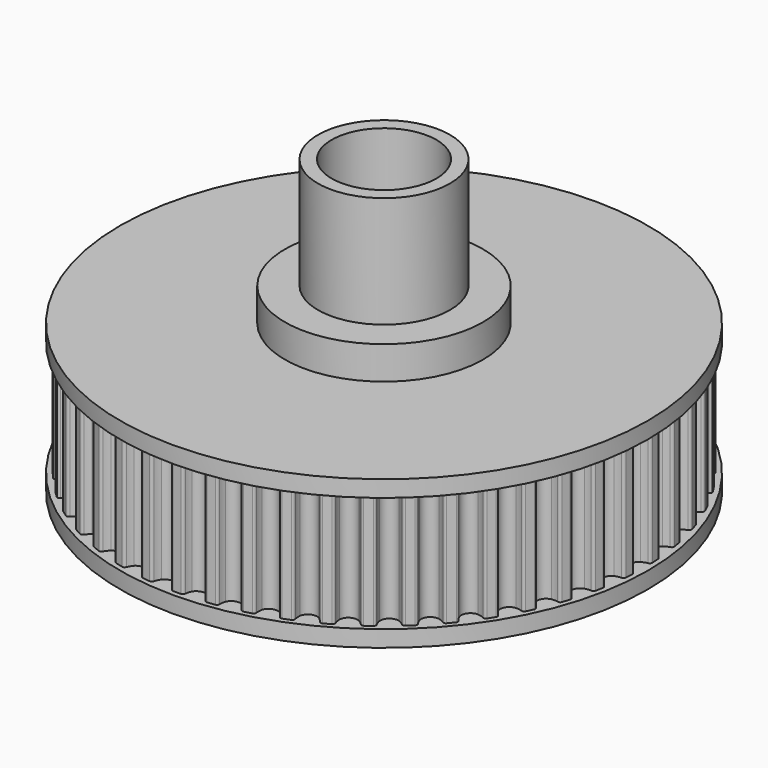
from build123d import *

# Parameters (mm, degrees)
PAD014_DEPTH     = 8
SKETCHBASE002_R  = 16
PADBASE002_DEPTH = 1
SKETCHTOP002_R   = 16
PADTOP002_DEPTH  = 1
SKETCH028_R      = 3.175
POCKET011_DEPTH  = 9.001
SKETCH029_R      = 6
PAD015_DEPTH     = 2
SKETCH030_R      = 4
PAD016_DEPTH     = 6.75
SKETCH031_R      = 6.35
PAD017_DEPTH     = 1.4
SKETCH032_R      = 3.175
POCKET012_DEPTH  = 19.151


with BuildPart() as part:
    # SketchGear002 → Pad014 (new body)
    with BuildSketch(Plane.XY):
        with BuildLine():
            ThreePointArc((15.661494, -0.75), (15.61756, -0.643934), (15.511494, -0.6))
            ThreePointArc((15.511494, -0.6), (15.332205, -0.544218), (15.161494, -0.466025))
            ThreePointArc((15.161494, -0.466025), (14.911494, 0), (15.161494, 0.466025))
            ThreePointArc((15.161494, 0.466025), (15.332205, 0.544218), (15.511494, 0.6))
            ThreePointArc((15.511494, 0.6), (15.61756, 0.643934), (15.661494, 0.75))
            Line((15.661494, 0.75), (15.631999, 1.21882))
            ThreePointArc((15.631999, 1.21882), (15.575118, 1.318543), (15.464381, 1.348837))
            ThreePointArc((15.464381, 1.348837), (15.279515, 1.381709), (15.10035, 1.437888))
            ThreePointArc((15.10035, 1.437888), (14.793913, 1.868906), (14.983533, 2.36259))
            ThreePointArc((14.983533, 2.36259), (15.143098, 2.461561), (15.313982, 2.539375))
            ThreePointArc((15.313982, 2.539375), (15.413705, 2.596256), (15.443999, 2.706992))
            Line((15.443999, 2.706992), (15.355977, 3.168418))
            ThreePointArc((15.355977, 3.168418), (15.287046, 3.260226), (15.173386, 3.276402))
            ThreePointArc((15.173386, 3.276402), (14.985857, 3.285844), (14.801064, 3.319126))
            ThreePointArc((14.801064, 3.319126), (14.443022, 3.708338), (14.569272, 4.221895))
            ThreePointArc((14.569272, 4.221895), (14.715174, 4.340084), (14.874958, 4.438702))
            ThreePointArc((14.874958, 4.438702), (14.966766, 4.507633), (14.982942, 4.621293))
            Line((14.982942, 4.621293), (14.837783, 5.068048))
            ThreePointArc((14.837783, 5.068048), (14.757888, 5.150493), (14.643097, 5.152296))
            ThreePointArc((14.643097, 5.152296), (14.455864, 5.138161), (14.268356, 5.148019))
            ThreePointArc((14.268356, 5.148019), (13.864357, 5.489287), (13.925246, 6.014618))
            ThreePointArc((13.925246, 6.014618), (14.055184, 6.150162), (14.201348, 6.268028))
            ThreePointArc((14.201348, 6.268028), (14.283792, 6.347922), (14.285596, 6.462713))
            Line((14.285596, 6.462713), (14.085587, 6.887752))
            ThreePointArc((14.085587, 6.887752), (13.99599, 6.959533), (13.881878, 6.946935))
            ThreePointArc((13.881878, 6.946935), (13.697893, 6.909445), (13.510628, 6.895724))
            ThreePointArc((13.510628, 6.895724), (13.067042, 7.183667), (13.061609, 7.712487))
            ThreePointArc((13.061609, 7.712487), (13.173535, 7.863248), (13.303774, 7.998503))
            ThreePointArc((13.303774, 7.998503), (13.375555, 8.088101), (13.362957, 8.202212))
            Line((13.362957, 8.202212), (13.111254, 8.598833))
            ThreePointArc((13.111254, 8.598833), (13.013367, 8.658818), (12.901734, 8.632017))
            ThreePointArc((12.901734, 8.632017), (12.723898, 8.571763), (12.539829, 8.53468))
            ThreePointArc((12.539829, 8.53468), (12.063652, 8.764756), (11.991984, 9.288725))
            ThreePointArc((11.991984, 9.288725), (12.084132, 9.452325), (12.196391, 9.602838))
            ThreePointArc((12.196391, 9.602838), (12.256377, 9.700725), (12.229576, 9.812358))
            Line((12.229576, 9.812358), (11.930148, 10.174304))
            ThreePointArc((11.930148, 10.174304), (11.825515, 10.221548), (11.718121, 10.180967))
            ThreePointArc((11.718121, 10.180967), (11.549239, 10.098899), (11.37127, 10.039039))
            ThreePointArc((11.37127, 10.039039), (10.870012, 10.20762), (10.733237, 10.718475))
            ThreePointArc((10.733237, 10.718475), (10.804154, 10.892334), (10.896664, 11.05573))
            ThreePointArc((10.896664, 11.05573), (10.943908, 11.160363), (10.903328, 11.267757))
            Line((10.903328, 11.267757), (10.560897, 11.589321))
            ThreePointArc((10.560897, 11.589321), (10.451167, 11.623078), (10.349707, 11.569357))
            ThreePointArc((10.349707, 11.569357), (10.192442, 11.46677), (10.023379, 11.385076))
            ThreePointArc((10.023379, 11.385076), (9.504944, 11.489504), (9.305221, 11.979188))
            ThreePointArc((9.305221, 11.979188), (9.353789, 12.160565), (9.425091, 12.334266))
            ThreePointArc((9.425091, 12.334266), (9.458848, 12.443996), (9.405127, 12.545457))
            Line((9.405127, 12.545457), (9.025094, 12.821567))
            ThreePointArc((9.025094, 12.821567), (8.911999, 12.841305), (8.818071, 12.775292))
            ThreePointArc((8.818071, 12.775292), (8.674904, 12.653803), (8.517413, 12.551564))
            ThreePointArc((8.517413, 12.551564), (7.989978, 12.590191), (7.730457, 13.050982))
            ThreePointArc((7.730457, 13.050982), (7.755908, 13.237015), (7.804878, 13.418284))
            ThreePointArc((7.804878, 13.418284), (7.824616, 13.531379), (7.758602, 13.625307))
            Line((7.758602, 13.625307), (7.34696, 13.851609))
            ThreePointArc((7.34696, 13.851609), (7.232283, 13.857017), (7.147369, 13.779752))
            ThreePointArc((7.147369, 13.779752), (7.020558, 13.641278), (6.877123, 13.520106))
            ThreePointArc((6.877123, 13.520106), (6.349005, 13.492323), (6.033778, 13.916954))
            ThreePointArc((6.033778, 13.916954), (6.035713, 14.104711), (6.061577, 14.290687))
            ThreePointArc((6.061577, 14.290687), (6.066985, 14.405365), (5.98972, 14.490278))
            Line((5.98972, 14.490278), (5.55296, 14.663203))
            ThreePointArc((5.55296, 14.663203), (5.438509, 14.654196), (5.363949, 14.566898))
            ThreePointArc((5.363949, 14.566898), (5.255494, 14.413621), (5.128376, 14.275428))
            ThreePointArc((5.128376, 14.275428), (4.607905, 14.181674), (4.241943, 14.563448))
            ThreePointArc((4.241943, 14.563448), (4.22033, 14.749966), (4.222681, 14.937718))
            ThreePointArc((4.222681, 14.937718), (4.213674, 15.052169), (4.126376, 15.126729))
            Line((4.126376, 15.126729), (3.671387, 15.24355))
            ThreePointArc((3.671387, 15.24355), (3.558967, 15.220269), (3.495937, 15.124314))
            ThreePointArc((3.495937, 15.124314), (3.407547, 14.958654), (3.298752, 14.805618))
            ThreePointArc((3.298752, 14.805618), (2.794135, 14.647371), (2.38321, 14.980267))
            ThreePointArc((2.38321, 14.980267), (2.338391, 15.162606), (2.317192, 15.349172))
            ThreePointArc((2.317192, 15.349172), (2.293911, 15.461592), (2.197956, 15.524622))
            Line((2.197956, 15.524622), (1.731913, 15.583497))
            ThreePointArc((1.731913, 15.583497), (1.623298, 15.54631), (1.572791, 15.443212))
            ThreePointArc((1.572791, 15.443212), (1.505861, 15.267779), (1.417104, 15.102315))
            ThreePointArc((1.417104, 15.102315), (0.9363, 14.88207), (0.486892, 15.160839))
            ThreePointArc((0.486892, 15.160839), (0.419573, 15.336122), (0.375159, 15.51856))
            ThreePointArc((0.375159, 15.51856), (0.337971, 15.627176), (0.234873, 15.677683))
            Line((0.234873, 15.677683), (-0.234873, 15.677683))
            ThreePointArc((-0.234873, 15.677683), (-0.337971, 15.627176), (-0.375159, 15.51856))
            ThreePointArc((-0.375159, 15.51856), (-0.419573, 15.336122), (-0.486892, 15.160839))
            ThreePointArc((-0.486892, 15.160839), (-0.9363, 14.88207), (-1.417104, 15.102315))
            ThreePointArc((-1.417104, 15.102315), (-1.505861, 15.267779), (-1.572791, 15.443212))
            ThreePointArc((-1.572791, 15.443212), (-1.623298, 15.54631), (-1.731913, 15.583497))
            Line((-1.731913, 15.583497), (-2.197956, 15.524622))
            ThreePointArc((-2.197956, 15.524622), (-2.293911, 15.461592), (-2.317192, 15.349172))
            ThreePointArc((-2.317192, 15.349172), (-2.338391, 15.162606), (-2.38321, 14.980267))
            ThreePointArc((-2.38321, 14.980267), (-2.794135, 14.647371), (-3.298752, 14.805618))
            ThreePointArc((-3.298752, 14.805618), (-3.407547, 14.958654), (-3.495937, 15.124314))
            ThreePointArc((-3.495937, 15.124314), (-3.558967, 15.220269), (-3.671387, 15.24355))
            Line((-3.671387, 15.24355), (-4.126376, 15.126729))
            ThreePointArc((-4.126376, 15.126729), (-4.213674, 15.052169), (-4.222681, 14.937718))
            ThreePointArc((-4.222681, 14.937718), (-4.22033, 14.749966), (-4.241943, 14.563448))
            ThreePointArc((-4.241943, 14.563448), (-4.607905, 14.181674), (-5.128376, 14.275428))
            ThreePointArc((-5.128376, 14.275428), (-5.255494, 14.413621), (-5.363949, 14.566898))
            ThreePointArc((-5.363949, 14.566898), (-5.438509, 14.654196), (-5.55296, 14.663203))
            Line((-5.55296, 14.663203), (-5.98972, 14.490278))
            ThreePointArc((-5.98972, 14.490278), (-6.066985, 14.405365), (-6.061577, 14.290687))
            ThreePointArc((-6.061577, 14.290687), (-6.035713, 14.104711), (-6.033778, 13.916954))
            ThreePointArc((-6.033778, 13.916954), (-6.349005, 13.492323), (-6.877123, 13.520106))
            ThreePointArc((-6.877123, 13.520106), (-7.020558, 13.641278), (-7.147369, 13.779752))
            ThreePointArc((-7.147369, 13.779752), (-7.232283, 13.857017), (-7.34696, 13.851609))
            Line((-7.34696, 13.851609), (-7.758602, 13.625307))
            ThreePointArc((-7.758602, 13.625307), (-7.824616, 13.531379), (-7.804878, 13.418284))
            ThreePointArc((-7.804878, 13.418284), (-7.755908, 13.237015), (-7.730457, 13.050982))
            ThreePointArc((-7.730457, 13.050982), (-7.989978, 12.590191), (-8.517413, 12.551564))
            ThreePointArc((-8.517413, 12.551564), (-8.674904, 12.653803), (-8.818071, 12.775292))
            ThreePointArc((-8.818071, 12.775292), (-8.911999, 12.841305), (-9.025094, 12.821567))
            Line((-9.025094, 12.821567), (-9.405127, 12.545457))
            ThreePointArc((-9.405127, 12.545457), (-9.458848, 12.443996), (-9.425091, 12.334266))
            ThreePointArc((-9.425091, 12.334266), (-9.353789, 12.160565), (-9.305221, 11.979188))
            ThreePointArc((-9.305221, 11.979188), (-9.504944, 11.489504), (-10.023379, 11.385076))
            ThreePointArc((-10.023379, 11.385076), (-10.192442, 11.46677), (-10.349707, 11.569357))
            ThreePointArc((-10.349707, 11.569357), (-10.451167, 11.623078), (-10.560897, 11.589321))
            Line((-10.560897, 11.589321), (-10.903328, 11.267757))
            ThreePointArc((-10.903328, 11.267757), (-10.943908, 11.160363), (-10.896664, 11.05573))
            ThreePointArc((-10.896664, 11.05573), (-10.804154, 10.892334), (-10.733237, 10.718475))
            ThreePointArc((-10.733237, 10.718475), (-10.870012, 10.20762), (-11.37127, 10.039039))
            ThreePointArc((-11.37127, 10.039039), (-11.549239, 10.098899), (-11.718121, 10.180967))
            ThreePointArc((-11.718121, 10.180967), (-11.825515, 10.221548), (-11.930148, 10.174304))
            Line((-11.930148, 10.174304), (-12.229576, 9.812358))
            ThreePointArc((-12.229576, 9.812358), (-12.256377, 9.700725), (-12.196391, 9.602838))
            ThreePointArc((-12.196391, 9.602838), (-12.084132, 9.452325), (-11.991984, 9.288725))
            ThreePointArc((-11.991984, 9.288725), (-12.063652, 8.764756), (-12.539829, 8.53468))
            ThreePointArc((-12.539829, 8.53468), (-12.723898, 8.571763), (-12.901734, 8.632017))
            ThreePointArc((-12.901734, 8.632017), (-13.013367, 8.658818), (-13.111254, 8.598833))
            Line((-13.111254, 8.598833), (-13.362957, 8.202212))
            ThreePointArc((-13.362957, 8.202212), (-13.375555, 8.088101), (-13.303774, 7.998503))
            ThreePointArc((-13.303774, 7.998503), (-13.173535, 7.863248), (-13.061609, 7.712487))
            ThreePointArc((-13.061609, 7.712487), (-13.067042, 7.183667), (-13.510628, 6.895724))
            ThreePointArc((-13.510628, 6.895724), (-13.697893, 6.909445), (-13.881878, 6.946935))
            ThreePointArc((-13.881878, 6.946935), (-13.99599, 6.959533), (-14.085587, 6.887752))
            Line((-14.085587, 6.887752), (-14.285596, 6.462713))
            ThreePointArc((-14.285596, 6.462713), (-14.283792, 6.347922), (-14.201348, 6.268028))
            ThreePointArc((-14.201348, 6.268028), (-14.055184, 6.150162), (-13.925246, 6.014618))
            ThreePointArc((-13.925246, 6.014618), (-13.864357, 5.489287), (-14.268356, 5.148019))
            ThreePointArc((-14.268356, 5.148019), (-14.455864, 5.138161), (-14.643097, 5.152296))
            ThreePointArc((-14.643097, 5.152296), (-14.757888, 5.150493), (-14.837783, 5.068048))
            Line((-14.837783, 5.068048), (-14.982942, 4.621293))
            ThreePointArc((-14.982942, 4.621293), (-14.966766, 4.507633), (-14.874958, 4.438702))
            ThreePointArc((-14.874958, 4.438702), (-14.715174, 4.340084), (-14.569272, 4.221895))
            ThreePointArc((-14.569272, 4.221895), (-14.443022, 3.708338), (-14.801064, 3.319126))
            ThreePointArc((-14.801064, 3.319126), (-14.985857, 3.285844), (-15.173386, 3.276402))
            ThreePointArc((-15.173386, 3.276402), (-15.287046, 3.260226), (-15.355977, 3.168418))
            Line((-15.355977, 3.168418), (-15.443999, 2.706992))
            ThreePointArc((-15.443999, 2.706992), (-15.413705, 2.596256), (-15.313982, 2.539375))
            ThreePointArc((-15.313982, 2.539375), (-15.143098, 2.461561), (-14.983533, 2.36259))
            ThreePointArc((-14.983533, 2.36259), (-14.793913, 1.868906), (-15.10035, 1.437888))
            ThreePointArc((-15.10035, 1.437888), (-15.279515, 1.381709), (-15.464381, 1.348837))
            ThreePointArc((-15.464381, 1.348837), (-15.575118, 1.318543), (-15.631999, 1.21882))
            Line((-15.631999, 1.21882), (-15.661494, 0.75))
            ThreePointArc((-15.661494, 0.75), (-15.61756, 0.643934), (-15.511494, 0.6))
            ThreePointArc((-15.511494, 0.6), (-15.332205, 0.544218), (-15.161494, 0.466025))
            ThreePointArc((-15.161494, 0.466025), (-14.911494, 0), (-15.161494, -0.466025))
            ThreePointArc((-15.161494, -0.466025), (-15.332205, -0.544218), (-15.511494, -0.6))
            ThreePointArc((-15.511494, -0.6), (-15.61756, -0.643934), (-15.661494, -0.75))
            Line((-15.661494, -0.75), (-15.631999, -1.21882))
            ThreePointArc((-15.631999, -1.21882), (-15.575118, -1.318543), (-15.464381, -1.348837))
            ThreePointArc((-15.464381, -1.348837), (-15.279515, -1.381709), (-15.10035, -1.437888))
            ThreePointArc((-15.10035, -1.437888), (-14.793913, -1.868906), (-14.983533, -2.36259))
            ThreePointArc((-14.983533, -2.36259), (-15.143098, -2.461561), (-15.313982, -2.539375))
            ThreePointArc((-15.313982, -2.539375), (-15.413705, -2.596256), (-15.443999, -2.706992))
            Line((-15.443999, -2.706992), (-15.355977, -3.168418))
            ThreePointArc((-15.355977, -3.168418), (-15.287046, -3.260226), (-15.173386, -3.276402))
            ThreePointArc((-15.173386, -3.276402), (-14.985857, -3.285844), (-14.801064, -3.319126))
            ThreePointArc((-14.801064, -3.319126), (-14.443022, -3.708338), (-14.569272, -4.221895))
            ThreePointArc((-14.569272, -4.221895), (-14.715174, -4.340084), (-14.874958, -4.438702))
            ThreePointArc((-14.874958, -4.438702), (-14.966766, -4.507633), (-14.982942, -4.621293))
            Line((-14.982942, -4.621293), (-14.837783, -5.068048))
            ThreePointArc((-14.837783, -5.068048), (-14.757888, -5.150493), (-14.643097, -5.152296))
            ThreePointArc((-14.643097, -5.152296), (-14.455864, -5.138161), (-14.268356, -5.148019))
            ThreePointArc((-14.268356, -5.148019), (-13.864357, -5.489287), (-13.925246, -6.014618))
            ThreePointArc((-13.925246, -6.014618), (-14.055184, -6.150162), (-14.201348, -6.268028))
            ThreePointArc((-14.201348, -6.268028), (-14.283792, -6.347922), (-14.285596, -6.462713))
            Line((-14.285596, -6.462713), (-14.085587, -6.887752))
            ThreePointArc((-14.085587, -6.887752), (-13.99599, -6.959533), (-13.881878, -6.946935))
            ThreePointArc((-13.881878, -6.946935), (-13.697893, -6.909445), (-13.510628, -6.895724))
            ThreePointArc((-13.510628, -6.895724), (-13.067042, -7.183667), (-13.061609, -7.712487))
            ThreePointArc((-13.061609, -7.712487), (-13.173535, -7.863248), (-13.303774, -7.998503))
            ThreePointArc((-13.303774, -7.998503), (-13.375555, -8.088101), (-13.362957, -8.202212))
            Line((-13.362957, -8.202212), (-13.111254, -8.598833))
            ThreePointArc((-13.111254, -8.598833), (-13.013367, -8.658818), (-12.901734, -8.632017))
            ThreePointArc((-12.901734, -8.632017), (-12.723898, -8.571763), (-12.539829, -8.53468))
            ThreePointArc((-12.539829, -8.53468), (-12.063652, -8.764756), (-11.991984, -9.288725))
            ThreePointArc((-11.991984, -9.288725), (-12.084132, -9.452325), (-12.196391, -9.602838))
            ThreePointArc((-12.196391, -9.602838), (-12.256377, -9.700725), (-12.229576, -9.812358))
            Line((-12.229576, -9.812358), (-11.930148, -10.174304))
            ThreePointArc((-11.930148, -10.174304), (-11.825515, -10.221548), (-11.718121, -10.180967))
            ThreePointArc((-11.718121, -10.180967), (-11.549239, -10.098899), (-11.37127, -10.039039))
            ThreePointArc((-11.37127, -10.039039), (-10.870012, -10.20762), (-10.733237, -10.718475))
            ThreePointArc((-10.733237, -10.718475), (-10.804154, -10.892334), (-10.896664, -11.05573))
            ThreePointArc((-10.896664, -11.05573), (-10.943908, -11.160363), (-10.903328, -11.267757))
            Line((-10.903328, -11.267757), (-10.560897, -11.589321))
            ThreePointArc((-10.560897, -11.589321), (-10.451167, -11.623078), (-10.349707, -11.569357))
            ThreePointArc((-10.349707, -11.569357), (-10.192442, -11.46677), (-10.023379, -11.385076))
            ThreePointArc((-10.023379, -11.385076), (-9.504944, -11.489504), (-9.305221, -11.979188))
            ThreePointArc((-9.305221, -11.979188), (-9.353789, -12.160565), (-9.425091, -12.334266))
            ThreePointArc((-9.425091, -12.334266), (-9.458848, -12.443996), (-9.405127, -12.545457))
            Line((-9.405127, -12.545457), (-9.025094, -12.821567))
            ThreePointArc((-9.025094, -12.821567), (-8.911999, -12.841305), (-8.818071, -12.775292))
            ThreePointArc((-8.818071, -12.775292), (-8.674904, -12.653803), (-8.517413, -12.551564))
            ThreePointArc((-8.517413, -12.551564), (-7.989978, -12.590191), (-7.730457, -13.050982))
            ThreePointArc((-7.730457, -13.050982), (-7.755908, -13.237015), (-7.804878, -13.418284))
            ThreePointArc((-7.804878, -13.418284), (-7.824616, -13.531379), (-7.758602, -13.625307))
            Line((-7.758602, -13.625307), (-7.34696, -13.851609))
            ThreePointArc((-7.34696, -13.851609), (-7.232283, -13.857017), (-7.147369, -13.779752))
            ThreePointArc((-7.147369, -13.779752), (-7.020558, -13.641278), (-6.877123, -13.520106))
            ThreePointArc((-6.877123, -13.520106), (-6.349005, -13.492323), (-6.033778, -13.916954))
            ThreePointArc((-6.033778, -13.916954), (-6.035713, -14.104711), (-6.061577, -14.290687))
            ThreePointArc((-6.061577, -14.290687), (-6.066985, -14.405365), (-5.98972, -14.490278))
            Line((-5.98972, -14.490278), (-5.55296, -14.663203))
            ThreePointArc((-5.55296, -14.663203), (-5.438509, -14.654196), (-5.363949, -14.566898))
            ThreePointArc((-5.363949, -14.566898), (-5.255494, -14.413621), (-5.128376, -14.275428))
            ThreePointArc((-5.128376, -14.275428), (-4.607905, -14.181674), (-4.241943, -14.563448))
            ThreePointArc((-4.241943, -14.563448), (-4.22033, -14.749966), (-4.222681, -14.937718))
            ThreePointArc((-4.222681, -14.937718), (-4.213674, -15.052169), (-4.126376, -15.126729))
            Line((-4.126376, -15.126729), (-3.671387, -15.24355))
            ThreePointArc((-3.671387, -15.24355), (-3.558967, -15.220269), (-3.495937, -15.124314))
            ThreePointArc((-3.495937, -15.124314), (-3.407547, -14.958654), (-3.298752, -14.805618))
            ThreePointArc((-3.298752, -14.805618), (-2.794135, -14.647371), (-2.38321, -14.980267))
            ThreePointArc((-2.38321, -14.980267), (-2.338391, -15.162606), (-2.317192, -15.349172))
            ThreePointArc((-2.317192, -15.349172), (-2.293911, -15.461592), (-2.197956, -15.524622))
            Line((-2.197956, -15.524622), (-1.731913, -15.583497))
            ThreePointArc((-1.731913, -15.583497), (-1.623298, -15.54631), (-1.572791, -15.443212))
            ThreePointArc((-1.572791, -15.443212), (-1.505861, -15.267779), (-1.417104, -15.102315))
            ThreePointArc((-1.417104, -15.102315), (-0.9363, -14.88207), (-0.486892, -15.160839))
            ThreePointArc((-0.486892, -15.160839), (-0.419573, -15.336122), (-0.375159, -15.51856))
            ThreePointArc((-0.375159, -15.51856), (-0.337971, -15.627176), (-0.234873, -15.677683))
            Line((-0.234873, -15.677683), (0.234873, -15.677683))
            ThreePointArc((0.234873, -15.677683), (0.337971, -15.627176), (0.375159, -15.51856))
            ThreePointArc((0.375159, -15.51856), (0.419573, -15.336122), (0.486892, -15.160839))
            ThreePointArc((0.486892, -15.160839), (0.9363, -14.88207), (1.417104, -15.102315))
            ThreePointArc((1.417104, -15.102315), (1.505861, -15.267779), (1.572791, -15.443212))
            ThreePointArc((1.572791, -15.443212), (1.623298, -15.54631), (1.731913, -15.583497))
            Line((1.731913, -15.583497), (2.197956, -15.524622))
            ThreePointArc((2.197956, -15.524622), (2.293911, -15.461592), (2.317192, -15.349172))
            ThreePointArc((2.317192, -15.349172), (2.338391, -15.162606), (2.38321, -14.980267))
            ThreePointArc((2.38321, -14.980267), (2.794135, -14.647371), (3.298752, -14.805618))
            ThreePointArc((3.298752, -14.805618), (3.407547, -14.958654), (3.495937, -15.124314))
            ThreePointArc((3.495937, -15.124314), (3.558967, -15.220269), (3.671387, -15.24355))
            Line((3.671387, -15.24355), (4.126376, -15.126729))
            ThreePointArc((4.126376, -15.126729), (4.213674, -15.052169), (4.222681, -14.937718))
            ThreePointArc((4.222681, -14.937718), (4.22033, -14.749966), (4.241943, -14.563448))
            ThreePointArc((4.241943, -14.563448), (4.607905, -14.181674), (5.128376, -14.275428))
            ThreePointArc((5.128376, -14.275428), (5.255494, -14.413621), (5.363949, -14.566898))
            ThreePointArc((5.363949, -14.566898), (5.438509, -14.654196), (5.55296, -14.663203))
            Line((5.55296, -14.663203), (5.98972, -14.490278))
            ThreePointArc((5.98972, -14.490278), (6.066985, -14.405365), (6.061577, -14.290687))
            ThreePointArc((6.061577, -14.290687), (6.035713, -14.104711), (6.033778, -13.916954))
            ThreePointArc((6.033778, -13.916954), (6.349005, -13.492323), (6.877123, -13.520106))
            ThreePointArc((6.877123, -13.520106), (7.020558, -13.641278), (7.147369, -13.779752))
            ThreePointArc((7.147369, -13.779752), (7.232283, -13.857017), (7.34696, -13.851609))
            Line((7.34696, -13.851609), (7.758602, -13.625307))
            ThreePointArc((7.758602, -13.625307), (7.824616, -13.531379), (7.804878, -13.418284))
            ThreePointArc((7.804878, -13.418284), (7.755908, -13.237015), (7.730457, -13.050982))
            ThreePointArc((7.730457, -13.050982), (7.989978, -12.590191), (8.517413, -12.551564))
            ThreePointArc((8.517413, -12.551564), (8.674904, -12.653803), (8.818071, -12.775292))
            ThreePointArc((8.818071, -12.775292), (8.911999, -12.841305), (9.025094, -12.821567))
            Line((9.025094, -12.821567), (9.405127, -12.545457))
            ThreePointArc((9.405127, -12.545457), (9.458848, -12.443996), (9.425091, -12.334266))
            ThreePointArc((9.425091, -12.334266), (9.353789, -12.160565), (9.305221, -11.979188))
            ThreePointArc((9.305221, -11.979188), (9.504944, -11.489504), (10.023379, -11.385076))
            ThreePointArc((10.023379, -11.385076), (10.192442, -11.46677), (10.349707, -11.569357))
            ThreePointArc((10.349707, -11.569357), (10.451167, -11.623078), (10.560897, -11.589321))
            Line((10.560897, -11.589321), (10.903328, -11.267757))
            ThreePointArc((10.903328, -11.267757), (10.943908, -11.160363), (10.896664, -11.05573))
            ThreePointArc((10.896664, -11.05573), (10.804154, -10.892334), (10.733237, -10.718475))
            ThreePointArc((10.733237, -10.718475), (10.870012, -10.20762), (11.37127, -10.039039))
            ThreePointArc((11.37127, -10.039039), (11.549239, -10.098899), (11.718121, -10.180967))
            ThreePointArc((11.718121, -10.180967), (11.825515, -10.221548), (11.930148, -10.174304))
            Line((11.930148, -10.174304), (12.229576, -9.812358))
            ThreePointArc((12.229576, -9.812358), (12.256377, -9.700725), (12.196391, -9.602838))
            ThreePointArc((12.196391, -9.602838), (12.084132, -9.452325), (11.991984, -9.288725))
            ThreePointArc((11.991984, -9.288725), (12.063652, -8.764756), (12.539829, -8.53468))
            ThreePointArc((12.539829, -8.53468), (12.723898, -8.571763), (12.901734, -8.632017))
            ThreePointArc((12.901734, -8.632017), (13.013367, -8.658818), (13.111254, -8.598833))
            Line((13.111254, -8.598833), (13.362957, -8.202212))
            ThreePointArc((13.362957, -8.202212), (13.375555, -8.088101), (13.303774, -7.998503))
            ThreePointArc((13.303774, -7.998503), (13.173535, -7.863248), (13.061609, -7.712487))
            ThreePointArc((13.061609, -7.712487), (13.067042, -7.183667), (13.510628, -6.895724))
            ThreePointArc((13.510628, -6.895724), (13.697893, -6.909445), (13.881878, -6.946935))
            ThreePointArc((13.881878, -6.946935), (13.99599, -6.959533), (14.085587, -6.887752))
            Line((14.085587, -6.887752), (14.285596, -6.462713))
            ThreePointArc((14.285596, -6.462713), (14.283792, -6.347922), (14.201348, -6.268028))
            ThreePointArc((14.201348, -6.268028), (14.055184, -6.150162), (13.925246, -6.014618))
            ThreePointArc((13.925246, -6.014618), (13.864357, -5.489287), (14.268356, -5.148019))
            ThreePointArc((14.268356, -5.148019), (14.455864, -5.138161), (14.643097, -5.152296))
            ThreePointArc((14.643097, -5.152296), (14.757888, -5.150493), (14.837783, -5.068048))
            Line((14.837783, -5.068048), (14.982942, -4.621293))
            ThreePointArc((14.982942, -4.621293), (14.966766, -4.507633), (14.874958, -4.438702))
            ThreePointArc((14.874958, -4.438702), (14.715174, -4.340084), (14.569272, -4.221895))
            ThreePointArc((14.569272, -4.221895), (14.443022, -3.708338), (14.801064, -3.319126))
            ThreePointArc((14.801064, -3.319126), (14.985857, -3.285844), (15.173386, -3.276402))
            ThreePointArc((15.173386, -3.276402), (15.287046, -3.260226), (15.355977, -3.168418))
            Line((15.355977, -3.168418), (15.443999, -2.706992))
            ThreePointArc((15.443999, -2.706992), (15.413705, -2.596256), (15.313982, -2.539375))
            ThreePointArc((15.313982, -2.539375), (15.143098, -2.461561), (14.983533, -2.36259))
            ThreePointArc((14.983533, -2.36259), (14.793913, -1.868906), (15.10035, -1.437888))
            ThreePointArc((15.10035, -1.437888), (15.279515, -1.381709), (15.464381, -1.348837))
            ThreePointArc((15.464381, -1.348837), (15.575118, -1.318543), (15.631999, -1.21882))
            Line((15.631999, -1.21882), (15.661494, -0.75))
        make_face()
    extrude(amount=PAD014_DEPTH)

    # SketchBase002 → PadBase002 (join)
    with BuildSketch(Plane.XY):
        Circle(SKETCHBASE002_R)
    extrude(amount=PADBASE002_DEPTH)

    # SketchTop002 → PadTop002 (join)
    with BuildSketch(Plane.XY.offset(8)):
        Circle(SKETCHTOP002_R)
    extrude(amount=PADTOP002_DEPTH)

    # Sketch028 (on Face307 of PadTop002) → Pocket011 (cut, through all)
    with BuildSketch(Plane.XY.offset(9)):
        Circle(SKETCH028_R)
    extrude(amount=-POCKET011_DEPTH, mode=Mode.SUBTRACT)

    # Sketch029 (on Face308 of Pocket011) → Pad015 (join)
    with BuildSketch(Plane.XY.offset(9)):
        Circle(SKETCH029_R)
    extrude(amount=PAD015_DEPTH)

    # Sketch030 (on Face311 of Pad015) → Pad016 (join)
    with BuildSketch(Plane.XY.offset(11)):
        Circle(SKETCH030_R)
    extrude(amount=PAD016_DEPTH)

    # Sketch031 (on Face305 of Pad016) → Pad017 (join)
    with BuildSketch(Plane(origin=(0, 0, 0), x_dir=(1, 0, 0), z_dir=(0, 0, -1))):
        Circle(SKETCH031_R)
    extrude(amount=PAD017_DEPTH)

    # Sketch032 (on Face313 of Pad017) → Pocket012 (cut, through all)
    with BuildSketch(Plane.XY.offset(17.75)):
        Circle(SKETCH032_R)
    extrude(amount=-POCKET012_DEPTH, mode=Mode.SUBTRACT)


with BuildPart() as part_1:
    # Gear002 placement: moved
    add(part.part.moved(Location((0, 0, -2))))


solid = part_1.part
